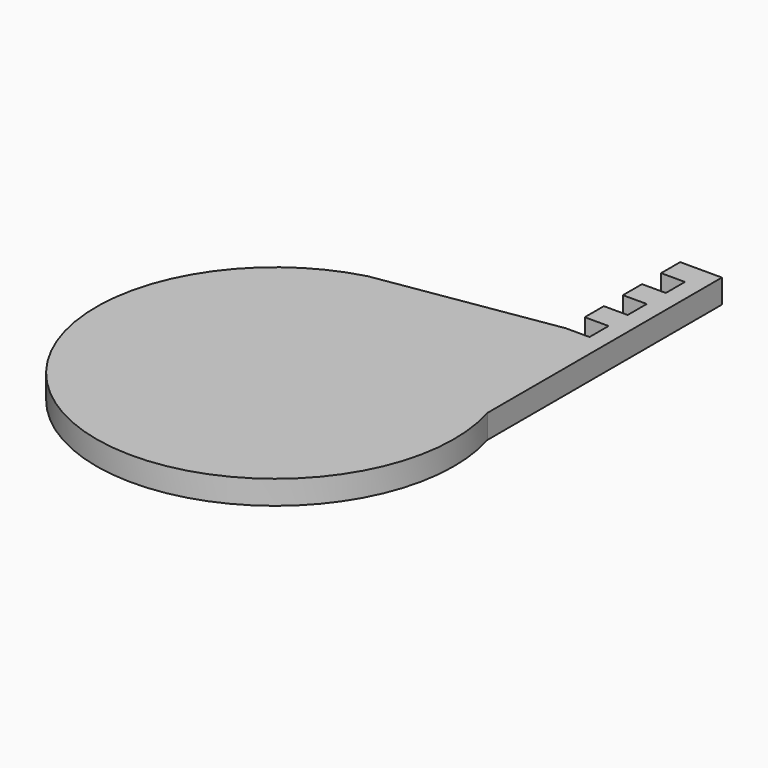
from build123d import *

# Parameters (mm, degrees)
PAD_DEPTH = 8


with BuildPart() as part:
    # Sketch → Pad (new body)
    with BuildSketch(Plane.XY):
        with BuildLine():
            Line((51.5303, 115.351058), (57.5303, 115.351058))
            Line((57.5303, 115.351058), (57.5303, 17.037153))
            ThreePointArc((-15.362291, 58), (-29.394284, -52.306558), (57.5303, 17.037153))
            Line((43.5303, 67.351058), (-15.362291, 58))
            Line((51.5303, 67.351058), (43.5303, 67.351058))
            Line((51.5303, 75.351058), (51.5303, 67.351058))
            Line((43.5303, 75.351058), (51.5303, 75.351058))
            Line((43.5303, 83.351058), (43.5303, 75.351058))
            Line((51.5303, 83.351058), (43.5303, 83.351058))
            Line((51.5303, 91.351058), (51.5303, 83.351058))
            Line((43.5303, 91.351058), (51.5303, 91.351058))
            Line((43.5303, 99.351058), (43.5303, 91.351058))
            Line((51.5303, 99.351058), (43.5303, 99.351058))
            Line((51.5303, 107.351058), (51.5303, 99.351058))
            Line((43.5303, 107.351058), (51.5303, 107.351058))
            Line((43.5303, 115.351058), (43.5303, 107.351058))
            Line((51.5303, 115.351058), (43.5303, 115.351058))
        make_face()
    extrude(amount=PAD_DEPTH)


solid = part.part
